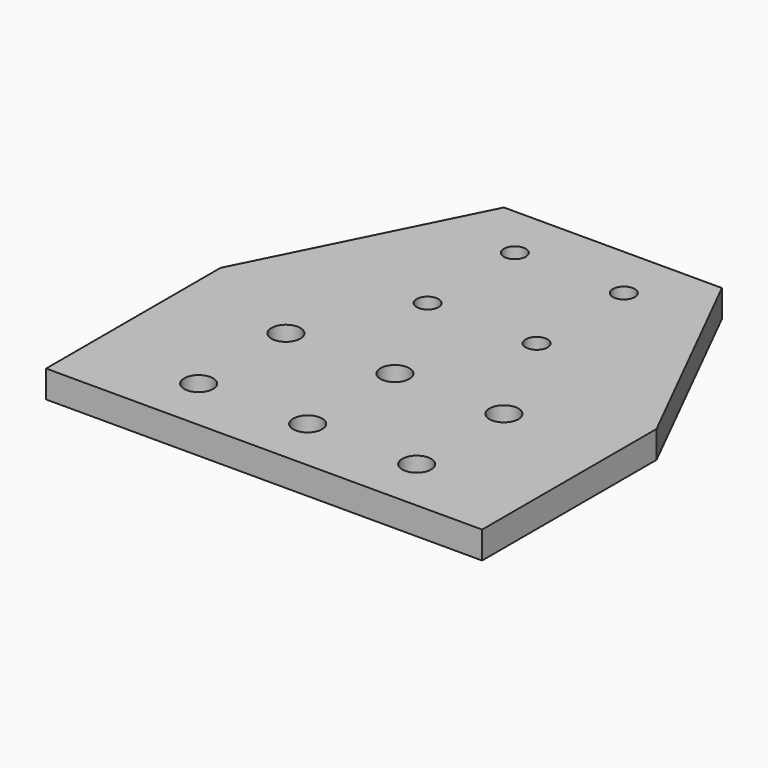
from build123d import *

# Parameters (mm, degrees)
F0_R     = 3.3782
F0_R_2   = 2.5527
F1_DEPTH = 6.35


with BuildPart() as f1:
    # F0 (on Top) → F1 (new body)
    with BuildSketch(Plane.XY):
        Polygon((76.2, 0), (25.4, 0), (0, -50.8), (0, -101.6), (101.6, -101.6), (101.6, -50.8), align=None)
        with Locations((25.4, -88.9)):
            Circle(F0_R, mode=Mode.SUBTRACT)
        with Locations((50.8, -88.9)):
            Circle(F0_R, mode=Mode.SUBTRACT)
        with Locations((25.4, -63.5)):
            Circle(F0_R, mode=Mode.SUBTRACT)
        with Locations((50.8, -63.5)):
            Circle(F0_R, mode=Mode.SUBTRACT)
        with Locations((76.2, -88.9)):
            Circle(F0_R, mode=Mode.SUBTRACT)
        with Locations((76.2, -63.5)):
            Circle(F0_R, mode=Mode.SUBTRACT)
        with Locations((38.1, -38.1)):
            Circle(F0_R_2, mode=Mode.SUBTRACT)
        with Locations((38.1, -12.7)):
            Circle(F0_R_2, mode=Mode.SUBTRACT)
        with Locations((63.5, -38.1)):
            Circle(F0_R_2, mode=Mode.SUBTRACT)
        with Locations((63.5, -12.7)):
            Circle(F0_R_2, mode=Mode.SUBTRACT)
    extrude(amount=F1_DEPTH)


solid = f1.part
